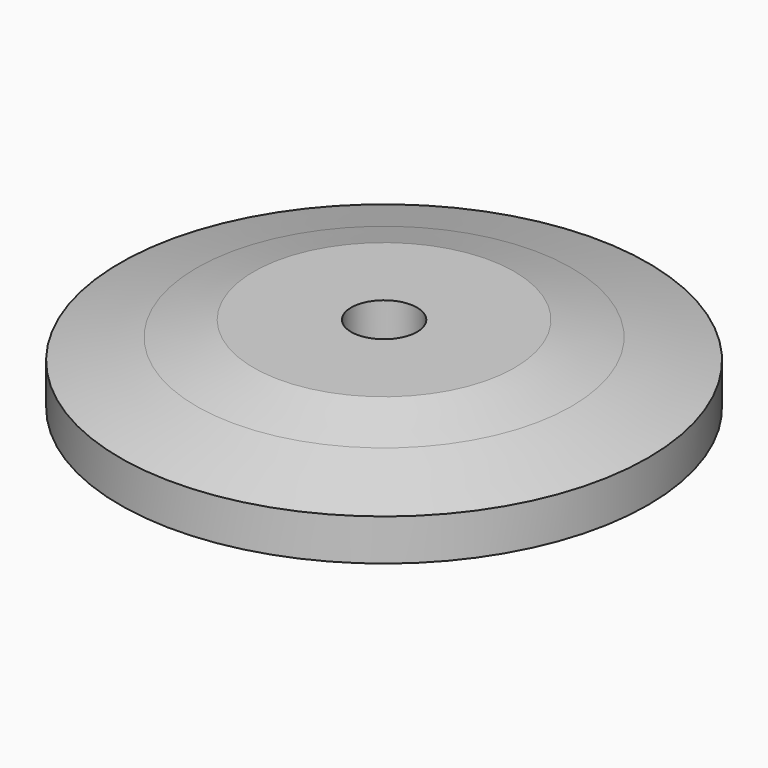
from build123d import *

# Parameters (mm, degrees)
F0_W = 5
F0_H = 1.6
F4_D = 5


with BuildPart() as f1:
    # F0 (on Front) → F1 (revolve)
    with BuildSketch(Plane.XZ):
        with Locations((7.5, 0.8)):
            Rectangle(F0_W, F0_H)
    revolve(axis=Axis((0, 0, 0.8), (0, 0, 1)))


with BuildPart() as f2:
    # F0 (on Front) → F2 (revolve)
    with BuildSketch(Plane.XZ):
        Polygon((0, 8), (0, 1.6), (5, 1.6), (10, 1.6), (10, 0), (12, 0), (20, 2.1435935394), (20, 5.2879747378), (14.2044450423, 6.8408890085), (9.8785839302, 8), align=None)
        with Locations((2.5, 0.8)):
            Rectangle(F0_W, F0_H)
    revolve(axis=Axis((0, 0, 4), (0, 0, 1)))

    # F4 (through all)
    with Locations(Plane.XY.offset(8)):
        with Locations((0, 0)):
            Hole(F4_D / 2)


solid = Compound([f1.part, f2.part])
